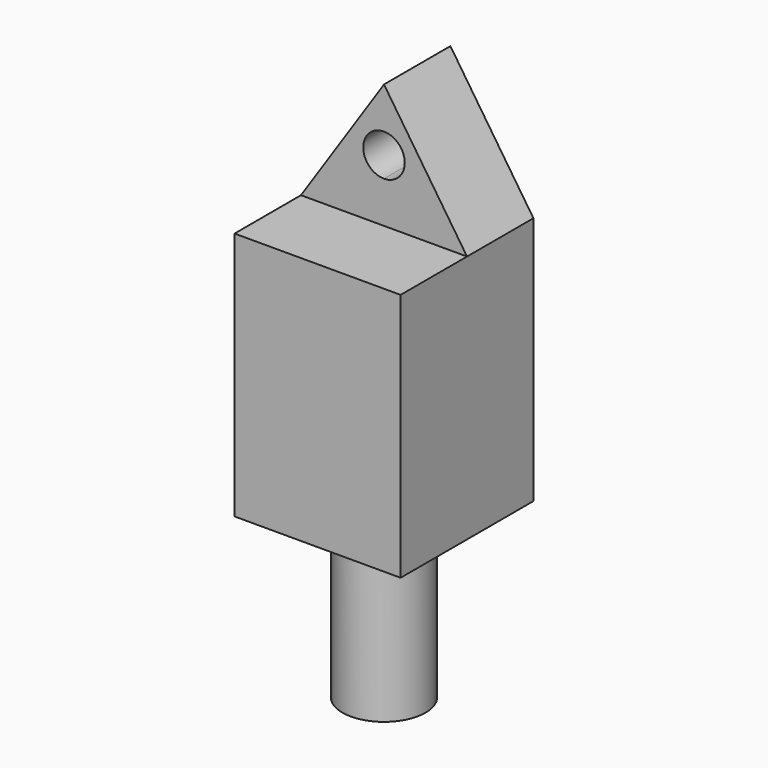
from build123d import *

# Parameters (mm, degrees)
F1_DEPTH = 101.6
F2_DEPTH = 50.8
F3_R     = 25.4
F4_DEPTH = 101.6


with BuildPart() as f1:
    # F0 (on Front) → F1 (new body)
    with BuildSketch(Plane.XZ):
        Polygon((30.294443, 168.60885), (-20.505557, 168.60885), (-20.505557, 16.20885), (81.094443, 16.20885), (81.094443, 168.60885), align=None)
    extrude(amount=F1_DEPTH)

    # F0 (on Front) → F2 (join)
    with BuildSketch(Plane.XZ):
        with BuildLine():
            Line((30.294443, 244.80885), (-20.505557, 168.60885))
            Line((-20.505557, 168.60885), (30.294443, 168.60885))
            Line((30.294443, 168.60885), (30.294443, 194.00885))
            ThreePointArc((30.294443, 194.00885), (17.594443, 206.70885), (30.294443, 219.40885))
            Line((30.294443, 219.40885), (30.294443, 244.80885))
        make_face()
        Polygon((30.294443, 168.60885), (-20.505557, 168.60885), (-20.505557, 16.20885), (81.094443, 16.20885), (81.094443, 168.60885), align=None)
        with BuildLine():
            Line((30.294443, 194.00885), (30.294443, 168.60885))
            Line((30.294443, 168.60885), (81.094443, 168.60885))
            Line((81.094443, 168.60885), (30.294443, 244.80885))
            Line((30.294443, 244.80885), (30.294443, 219.40885))
            ThreePointArc((30.294443, 219.40885), (39.274699, 215.689107), (42.994443, 206.70885))
            ThreePointArc((42.994443, 206.70885), (39.274699, 197.728594), (30.294443, 194.00885))
        make_face()
    extrude(amount=F2_DEPTH)

    # F3 (on face) → F4 (join)
    with BuildSketch(Plane(origin=(0, 0, 16.20885), x_dir=(1, 0, 0), z_dir=(0, 0, -1))):
        with Locations((30.294443, 50.8)):
            Circle(F3_R)
    extrude(amount=F4_DEPTH)


solid = f1.part
